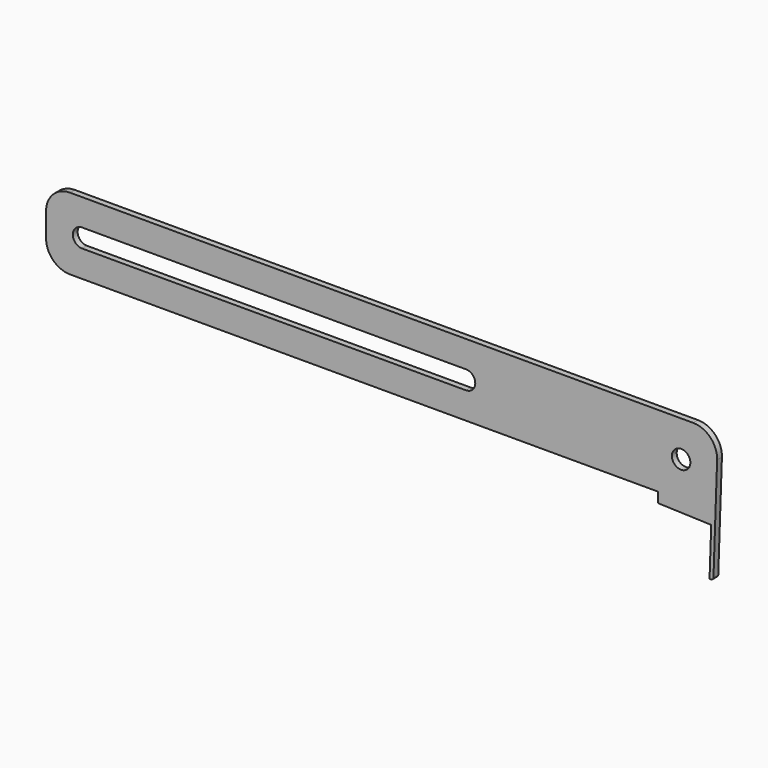
from build123d import *

# Parameters (mm, degrees)
F0_R     = 4.8895
F1_DEPTH = 3.175


with BuildPart() as f1:
    # F0 (on Front) → F1 (new body)
    with BuildSketch(Plane.XZ):
        with BuildLine():
            Line((136.124761, -52.778608), (-193.624004, -52.778608))
            ThreePointArc((-193.624004, -52.778608), (-202.60426, -56.498352), (-206.324004, -65.478608))
            Line((-206.324004, -65.478608), (-206.324004, -78.178608))
            ThreePointArc((-206.324004, -78.178608), (-202.60426, -87.158864), (-193.624004, -90.878608))
            Line((-193.624004, -90.878608), (117.525996, -90.878608))
            Line((117.525996, -90.878608), (117.525996, -96.245038))
            Line((117.525996, -96.245038), (145.691767, -97.228608))
            Line((145.691767, -97.228608), (144.80478, -122.628608))
            Line((144.80478, -122.628608), (145.55753, -122.628608))
            ThreePointArc((145.55753, -122.628608), (146.477745, -122.256817), (146.881425, -121.350138))
            Line((146.881425, -121.350138), (148.817024, -65.921832))
            ThreePointArc((148.817024, -65.921832), (145.260376, -56.656447), (136.124761, -52.778608))
        make_face()
        with BuildLine():
            ThreePointArc((-187.274004, -76.718108), (-192.163504, -71.828608), (-187.274004, -66.939108))
            Line((-187.274004, -66.939108), (15.925996, -66.939108))
            ThreePointArc((15.925996, -66.939108), (20.815496, -71.828608), (15.925996, -76.718108))
            Line((15.925996, -76.718108), (-187.274004, -76.718108))
        make_face(mode=Mode.SUBTRACT)
        with Locations((129.767024, -71.828608)):
            Circle(F0_R, mode=Mode.SUBTRACT)
    extrude(amount=F1_DEPTH)


solid = f1.part
